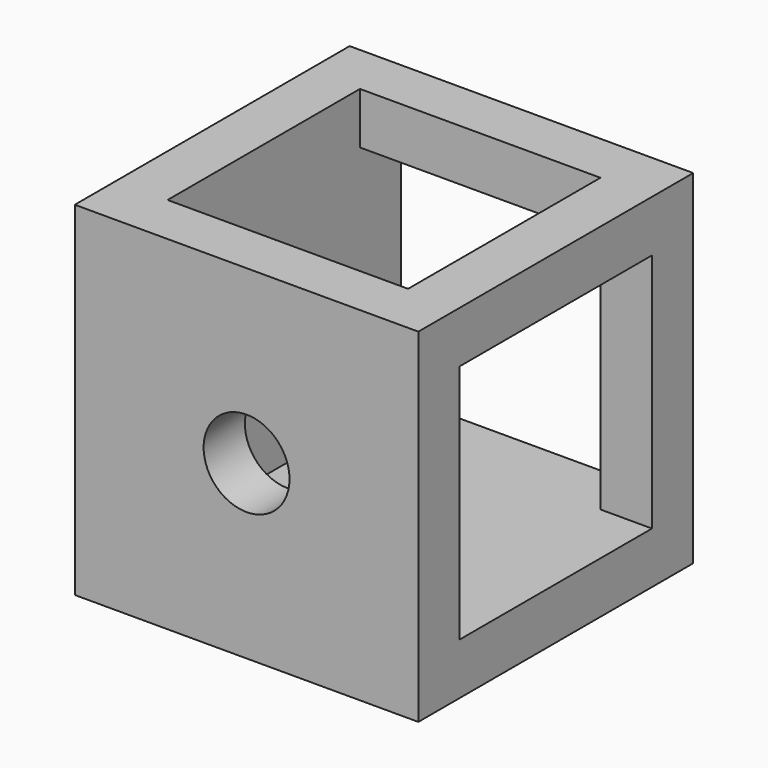
from build123d import *

# Parameters (mm, degrees)
SKETCH019_W     = 20
SKETCH019_H     = 20
PAD013_DEPTH    = 10
SKETCH020_R     = 2.5
HOLE003_DEPTH   = 25
SKETCH021_R     = 2.5
HOLE004_DEPTH   = 25
SKETCH022_R     = 2.5
HOLE005_DEPTH   = 25
SKETCH023_W     = 14
SKETCH023_H     = 14
POCKET003_DEPTH = 17
SKETCH024_W     = 14
SKETCH024_H     = 14
POCKET004_DEPTH = 17
SKETCH025_W     = 14
SKETCH025_H     = 14
POCKET005_DEPTH = 17


with BuildPart() as part:
    # Sketch019 → Pad013 (new body, symmetric)
    with BuildSketch(Plane.XZ):
        Rectangle(SKETCH019_W, SKETCH019_H)
    extrude(amount=PAD013_DEPTH, both=True)

    # Sketch020 (on Face1 of Pad013) → Hole003 (cut)
    with BuildSketch(Plane(origin=(0, 0, 10), x_dir=(-1, 0, 0), z_dir=(0, 0, 1))):
        Circle(SKETCH020_R)
    extrude(amount=-HOLE003_DEPTH, mode=Mode.SUBTRACT)

    # Sketch021 (on Face2 of Hole003) → Hole004 (cut)
    with BuildSketch(Plane(origin=(10, 0, 0), x_dir=(0, 0, 1), z_dir=(1, 0, 0))):
        Circle(SKETCH021_R)
    extrude(amount=-HOLE004_DEPTH, mode=Mode.SUBTRACT)

    # Sketch022 (on Face3 of Hole003) → Hole005 (cut)
    with BuildSketch(Plane(origin=(0, 10, 0), x_dir=(1, 0, 0), z_dir=(0, 1, 0))):
        Circle(SKETCH022_R)
    extrude(amount=-HOLE005_DEPTH, mode=Mode.SUBTRACT)

    # Sketch023 (on Face2 of Hole005) → Pocket003 (cut)
    with BuildSketch(Plane(origin=(10, 0, 0), x_dir=(0, 0, 1), z_dir=(1, 0, 0))):
        Rectangle(SKETCH023_W, SKETCH023_H)
    extrude(amount=-POCKET003_DEPTH, mode=Mode.SUBTRACT)

    # Sketch024 (on Face3 of Pocket003) → Pocket004 (cut)
    with BuildSketch(Plane(origin=(0, 10, 0), x_dir=(1, 0, 0), z_dir=(0, 1, 0))):
        Rectangle(SKETCH024_W, SKETCH024_H)
    extrude(amount=-POCKET004_DEPTH, mode=Mode.SUBTRACT)

    # Sketch025 (on Face1 of Pocket004) → Pocket005 (cut)
    with BuildSketch(Plane(origin=(0, 0, 10), x_dir=(-1, 0, 0), z_dir=(0, 0, 1))):
        Rectangle(SKETCH025_W, SKETCH025_H)
    extrude(amount=-POCKET005_DEPTH, mode=Mode.SUBTRACT)


solid = part.part
